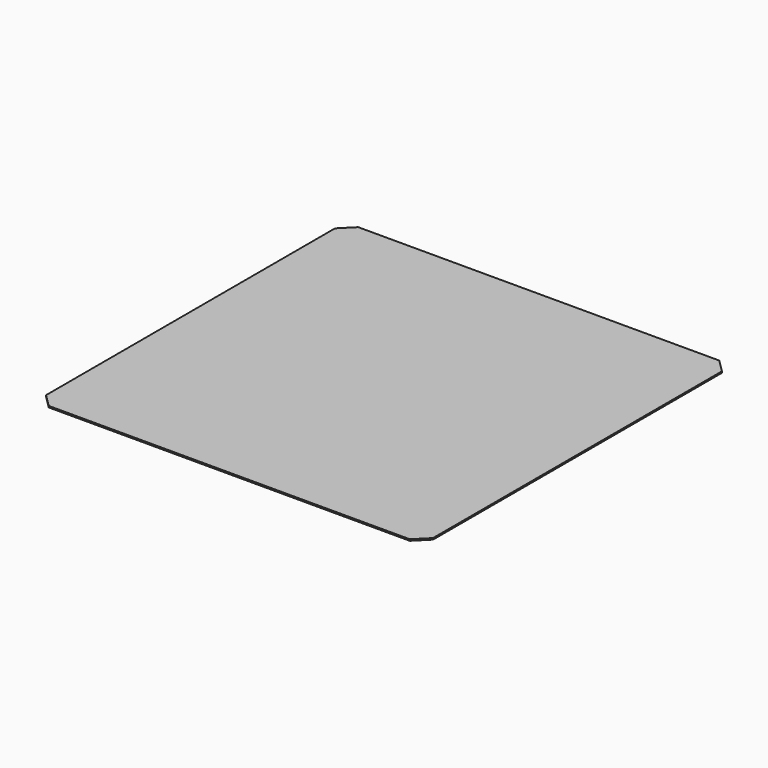
from build123d import *

# Parameters (mm, degrees)
F0_W     = 150
F0_H     = 150
F1_DEPTH = 0.55
F2_SIZE  = 5


with BuildPart() as f1:
    # F0 (on Top) → F1 (new body)
    with BuildSketch(Plane.XY):
        Rectangle(F0_W, F0_H)
    extrude(amount=F1_DEPTH)

    # F2
    f2_edges = [f1.edges().sort_by_distance(p)[0] for p in [
        (-75, -75, 0.275),
        (-75, 75, 0.275),
        (75, 75, 0.275),
        (75, -75, 0.275),
    ]]
    chamfer(f2_edges, length=F2_SIZE)


solid = f1.part
